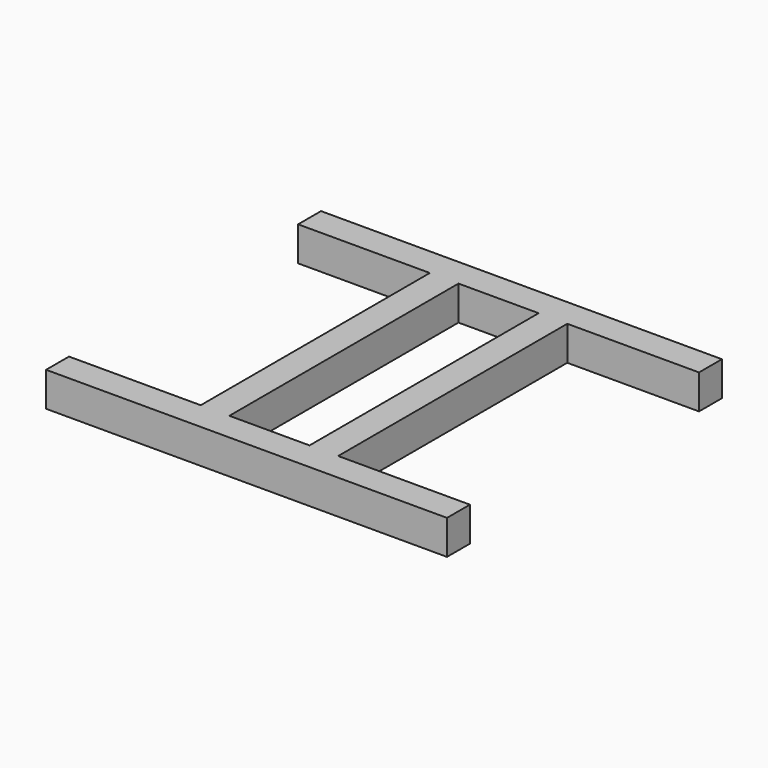
from build123d import *

# Parameters (mm, degrees)
BOX002_W     = 25
BOX002_H     = 50
BOX002_DEPTH = 10
BOX003_W     = 25
BOX003_H     = 50
BOX003_DEPTH = 10
BOX001_W     = 14
BOX001_H     = 50
BOX001_DEPTH = 10
BOX_W        = 70
BOX_H        = 60
BOX_DEPTH    = 6


with BuildPart() as cube002:
    # Box002 → Box002 (new body)
    with BuildSketch(Plane(origin=(-2, 5, -1), x_dir=(1, 0, 0), z_dir=(0, 0, 1))):
        with Locations((12.5, 25)):
            Rectangle(BOX002_W, BOX002_H)
    extrude(amount=BOX002_DEPTH)


with BuildPart() as cube003:
    # Box003 → Box003 (new body)
    with BuildSketch(Plane(origin=(47, 5, -1), x_dir=(1, 0, 0), z_dir=(0, 0, 1))):
        with Locations((12.5, 25)):
            Rectangle(BOX003_W, BOX003_H)
    extrude(amount=BOX003_DEPTH)


with BuildPart() as cube001:
    # Box001 → Box001 (new body)
    with BuildSketch(Plane(origin=(28, 5, -1), x_dir=(1, 0, 0), z_dir=(0, 0, 1))):
        with Locations((7, 25)):
            Rectangle(BOX001_W, BOX001_H)
    extrude(amount=BOX001_DEPTH)


with BuildPart() as cut002:
    # Box → Box (new body)
    with BuildSketch(Plane.XY):
        with Locations((35, 30)):
            Rectangle(BOX_W, BOX_H)
    extrude(amount=BOX_DEPTH)

    # Cut: cut Cube001
    add(cube001.part, mode=Mode.SUBTRACT)

    # Cut001: cut Cube003
    add(cube003.part, mode=Mode.SUBTRACT)

    # Cut002: cut Cube002
    add(cube002.part, mode=Mode.SUBTRACT)


solid = cut002.part
